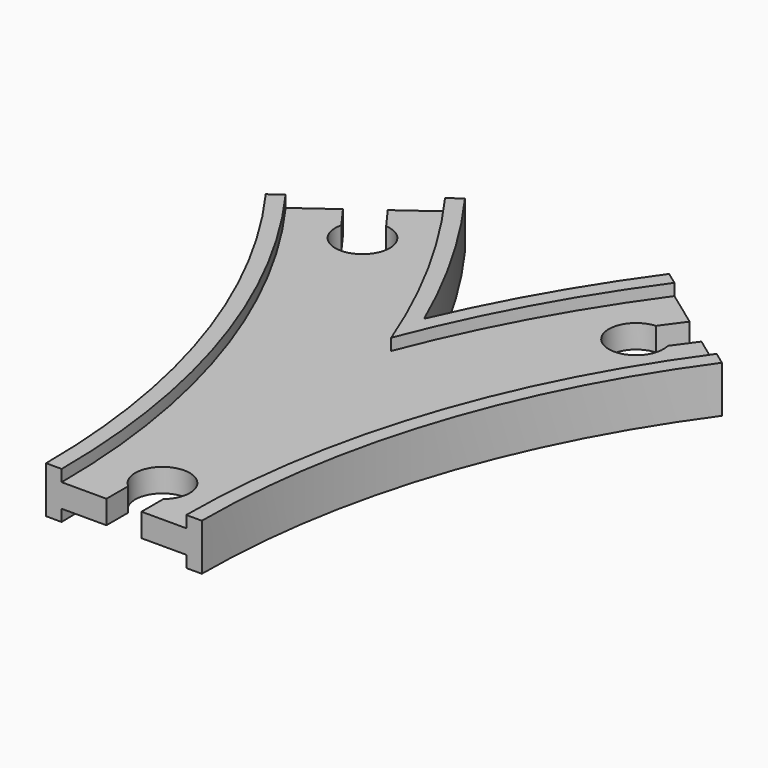
from build123d import *

# Parameters (mm, degrees)
SKETCH013_W          = 32
SKETCH013_H          = 3
POCKET_DEPTH         = 6.001
POCKET_DEPTH_BACK    = -6.001
POCKET001_DEPTH      = 6.001
POCKET001_DEPTH_BACK = -6.001
POCKET002_DEPTH      = 6.001
POCKET002_DEPTH_BACK = -6.001


with BuildPart() as part:
    # AdditivePipe: sweep along a path in Sketch
    with BuildLine(Plane.XY) as additivepipe_path:
        ThreePointArc((0, 0), (-10.865453, 68.601773), (-42.398227, 130.488326))
    # Sketch002 → AdditivePipe (sweep)
    with BuildSketch(Plane.XZ):
        Polygon((-20, 6), (-20, -6), (-16, -6), (-16, -3), (-9, -3), (9, -3), (16, -3), (16, -6), (20, -6), (20, 6), (16, 6), (16, 3), (9, 3), (-9, 3), (-16, 3), (-16, 6), align=None)
    sweep(path=additivepipe_path.line)

    # AdditivePipe001: sweep along a path in Sketch001
    with BuildLine(Plane.XY) as additivepipe001_path:
        ThreePointArc((42.398227, 130.488326), (10.865453, 68.601773), (0, 0))
    # Sketch002 → AdditivePipe001 (sweep)
    with BuildSketch(Plane.XZ):
        Polygon((-20, 6), (-20, -6), (-16, -6), (-16, -3), (-9, -3), (9, -3), (16, -3), (16, -6), (20, -6), (20, 6), (16, 6), (16, 3), (9, 3), (-9, 3), (-16, 3), (-16, 6), align=None)
    sweep(path=additivepipe001_path.line)

    # SubtractivePipe: sweep along a path in Sketch
    with BuildLine(Plane.XY) as subtractivepipe_path:
        ThreePointArc((0, 0), (-10.865453, 68.601773), (-42.398227, 130.488326))
    # Sketch013 (on Face1 of AdditivePipe001) → SubtractivePipe (sweep, cut)
    with BuildSketch(Plane.XZ):
        with Locations((0, 4.5)):
            Rectangle(SKETCH013_W, SKETCH013_H)
    subtractivepipe = sweep(path=subtractivepipe_path.line, mode=Mode.SUBTRACT)

    # SubtractivePipe001: sweep along a path in Sketch001
    with BuildLine(Plane.XY) as subtractivepipe001_path:
        ThreePointArc((42.398227, 130.488326), (10.865453, 68.601773), (0, 0))
    # Sketch013 (on Face1 of AdditivePipe001) → SubtractivePipe001 (sweep, cut)
    with BuildSketch(Plane.XZ):
        with Locations((0, 4.5)):
            Rectangle(SKETCH013_W, SKETCH013_H)
    subtractivepipe001 = sweep(path=subtractivepipe001_path.line, mode=Mode.SUBTRACT)

    # Mirrored: SubtractivePipe across XY
    add(subtractivepipe.mirror(Plane.XY), mode=Mode.SUBTRACT)

    # Mirrored001: SubtractivePipe001 across XY
    add(subtractivepipe001.mirror(Plane.XY), mode=Mode.SUBTRACT)

    # Sketch007 → Pocket (cut, two sides)
    with BuildSketch(Plane.XY) as pocket_sk:
        with BuildLine():
            Line((-4.5, 0), (4.5, 0))
            Line((4.5, 0), (4.5, 7))
            ThreePointArc((4.5, 7), (0, 19.361903), (-4.5, 7))
            Line((-4.5, 0), (-4.5, 7))
        make_face()
    extrude(amount=-POCKET_DEPTH, mode=Mode.SUBTRACT)
    extrude(pocket_sk.sketch, amount=-POCKET_DEPTH_BACK, mode=Mode.SUBTRACT)

    # Sketch008 → Pocket001 (cut, two sides)
    with BuildSketch(Plane.XY) as pocket001_sk:
        with BuildLine():
            Line((-46.038804, 127.843292), (-38.757651, 133.13336))
            Line((-38.757651, 133.13336), (-34.643154, 127.470241))
            ThreePointArc((-41.924307, 122.180173), (-31.017586, 114.824218), (-34.643154, 127.470241))
            Line((-46.038804, 127.843292), (-41.924307, 122.180173))
        make_face()
    extrude(amount=-POCKET001_DEPTH, mode=Mode.SUBTRACT)
    extrude(pocket001_sk.sketch, amount=-POCKET001_DEPTH_BACK, mode=Mode.SUBTRACT)

    # Sketch009 → Pocket002 (cut, two sides)
    with BuildSketch(Plane.XY) as pocket002_sk:
        with BuildLine():
            Line((38.757651, 133.13336), (46.038804, 127.843292))
            Line((46.038804, 127.843292), (41.924307, 122.180173))
            ThreePointArc((34.643154, 127.470241), (31.017586, 114.824218), (41.924307, 122.180173))
            Line((38.757651, 133.13336), (34.643154, 127.470241))
        make_face()
    extrude(amount=-POCKET002_DEPTH, mode=Mode.SUBTRACT)
    extrude(pocket002_sk.sketch, amount=-POCKET002_DEPTH_BACK, mode=Mode.SUBTRACT)


solid = part.part
